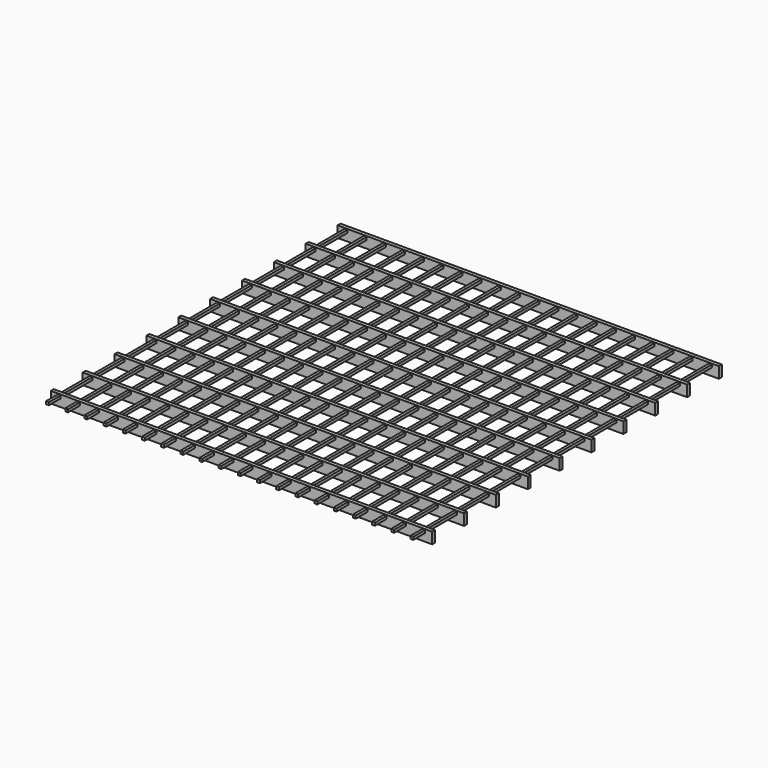
from build123d import *

# Parameters (mm, degrees)
F1_DEPTH      = 151
F2_W          = 38
F2_H          = 38
F3_DEPTH      = 4920
F3_DEPTH_BACK = 200


with BuildPart() as f1:
    # F0 (on Top) → F1 (new body)
    with BuildSketch(Plane.XY):
        Polygon((-2535, -2460), (2585, -2460), (2585, -2410), (-2535, -2410), (-2560, -2410), (-2585, -2410), (-2585, -2460), (-2560, -2460), align=None)
    extrude(amount=F1_DEPTH)


with BuildPart() as f1b:
    # F0 (on Top) → F1, piece 2 (new body)
    with BuildSketch(Plane.XY):
        Polygon((-2535, -1920), (2585, -1920), (2585, -1870), (-2535, -1870), (-2560, -1870), (-2585, -1870), (-2585, -1920), (-2560, -1920), align=None)
    extrude(amount=F1_DEPTH)


with BuildPart() as f1c:
    # F0 (on Top) → F1, piece 3 (new body)
    with BuildSketch(Plane.XY):
        Polygon((-2535, -1380), (2585, -1380), (2585, -1330), (-2535, -1330), (-2560, -1330), (-2585, -1330), (-2585, -1380), (-2560, -1380), align=None)
    extrude(amount=F1_DEPTH)


with BuildPart() as f1d:
    # F0 (on Top) → F1, piece 4 (new body)
    with BuildSketch(Plane.XY):
        Polygon((-2535, -840), (2585, -840), (2585, -790), (-2535, -790), (-2560, -790), (-2585, -790), (-2585, -840), (-2560, -840), align=None)
    extrude(amount=F1_DEPTH)


with BuildPart() as f1e:
    # F0 (on Top) → F1, piece 5 (new body)
    with BuildSketch(Plane.XY):
        Polygon((-2535, -300), (2585, -300), (2585, -250), (-2535, -250), (-2560, -250), (-2585, -250), (-2585, -300), (-2560, -300), align=None)
    extrude(amount=F1_DEPTH)


with BuildPart() as f1f:
    # F0 (on Top) → F1, piece 6 (new body)
    with BuildSketch(Plane.XY):
        Polygon((-2535, 240), (2585, 240), (2585, 290), (-2535, 290), (-2560, 290), (-2585, 290), (-2585, 240), (-2560, 240), align=None)
    extrude(amount=F1_DEPTH)


with BuildPart() as f1g:
    # F0 (on Top) → F1, piece 7 (new body)
    with BuildSketch(Plane.XY):
        Polygon((-2535, 780), (2585, 780), (2585, 830), (-2535, 830), (-2560, 830), (-2585, 830), (-2585, 780), (-2560, 780), align=None)
    extrude(amount=F1_DEPTH)


with BuildPart() as f1h:
    # F0 (on Top) → F1, piece 8 (new body)
    with BuildSketch(Plane.XY):
        Polygon((-2535, 1320), (2585, 1320), (2585, 1370), (-2535, 1370), (-2560, 1370), (-2585, 1370), (-2585, 1320), (-2560, 1320), align=None)
    extrude(amount=F1_DEPTH)


with BuildPart() as f1i:
    # F0 (on Top) → F1, piece 9 (new body)
    with BuildSketch(Plane.XY):
        Polygon((-2535, 1860), (2585, 1860), (2585, 1910), (-2535, 1910), (-2560, 1910), (-2585, 1910), (-2585, 1860), (-2560, 1860), align=None)
    extrude(amount=F1_DEPTH)


with BuildPart() as f1j:
    # F0 (on Top) → F1, piece 10 (new body)
    with BuildSketch(Plane.XY):
        Polygon((-2535, 2400), (2585, 2400), (2585, 2450), (-2535, 2450), (-2560, 2450), (-2585, 2450), (-2585, 2400), (-2560, 2400), align=None)
    extrude(amount=F1_DEPTH)


with BuildPart() as f3:
    # F2 (on face) → F3 (new body, two sides)
    with BuildSketch(Plane.XZ.offset(2460)) as f3_sk:
        with Locations((2470, 122)):
            Rectangle(F2_W, F2_H)
    extrude(amount=-F3_DEPTH)
    extrude(f3_sk.sketch, amount=F3_DEPTH_BACK)


with BuildPart() as f3b:
    # F2 (on face) → F3, piece 2 (new body, two sides)
    with BuildSketch(Plane.XZ.offset(2460)) as f3_2_sk:
        with Locations((2210, 122)):
            Rectangle(F2_W, F2_H)
    extrude(amount=-F3_DEPTH)
    extrude(f3_2_sk.sketch, amount=F3_DEPTH_BACK)


with BuildPart() as f3c:
    # F2 (on face) → F3, piece 3 (new body, two sides)
    with BuildSketch(Plane.XZ.offset(2460)) as f3_3_sk:
        with Locations((1950, 122)):
            Rectangle(F2_W, F2_H)
    extrude(amount=-F3_DEPTH)
    extrude(f3_3_sk.sketch, amount=F3_DEPTH_BACK)


with BuildPart() as f3d:
    # F2 (on face) → F3, piece 4 (new body, two sides)
    with BuildSketch(Plane.XZ.offset(2460)) as f3_4_sk:
        with Locations((1690, 122)):
            Rectangle(F2_W, F2_H)
    extrude(amount=-F3_DEPTH)
    extrude(f3_4_sk.sketch, amount=F3_DEPTH_BACK)


with BuildPart() as f3e:
    # F2 (on face) → F3, piece 5 (new body, two sides)
    with BuildSketch(Plane.XZ.offset(2460)) as f3_5_sk:
        with Locations((1430, 122)):
            Rectangle(F2_W, F2_H)
    extrude(amount=-F3_DEPTH)
    extrude(f3_5_sk.sketch, amount=F3_DEPTH_BACK)


with BuildPart() as f3f:
    # F2 (on face) → F3, piece 6 (new body, two sides)
    with BuildSketch(Plane.XZ.offset(2460)) as f3_6_sk:
        with Locations((1170, 122)):
            Rectangle(F2_W, F2_H)
    extrude(amount=-F3_DEPTH)
    extrude(f3_6_sk.sketch, amount=F3_DEPTH_BACK)


with BuildPart() as f3g:
    # F2 (on face) → F3, piece 7 (new body, two sides)
    with BuildSketch(Plane.XZ.offset(2460)) as f3_7_sk:
        with Locations((910, 122)):
            Rectangle(F2_W, F2_H)
    extrude(amount=-F3_DEPTH)
    extrude(f3_7_sk.sketch, amount=F3_DEPTH_BACK)


with BuildPart() as f3h:
    # F2 (on face) → F3, piece 8 (new body, two sides)
    with BuildSketch(Plane.XZ.offset(2460)) as f3_8_sk:
        with Locations((650, 122)):
            Rectangle(F2_W, F2_H)
    extrude(amount=-F3_DEPTH)
    extrude(f3_8_sk.sketch, amount=F3_DEPTH_BACK)


with BuildPart() as f3i:
    # F2 (on face) → F3, piece 9 (new body, two sides)
    with BuildSketch(Plane.XZ.offset(2460)) as f3_9_sk:
        with Locations((390, 122)):
            Rectangle(F2_W, F2_H)
    extrude(amount=-F3_DEPTH)
    extrude(f3_9_sk.sketch, amount=F3_DEPTH_BACK)


with BuildPart() as f3j:
    # F2 (on face) → F3, piece 10 (new body, two sides)
    with BuildSketch(Plane.XZ.offset(2460)) as f3_10_sk:
        with Locations((130, 122)):
            Rectangle(F2_W, F2_H)
    extrude(amount=-F3_DEPTH)
    extrude(f3_10_sk.sketch, amount=F3_DEPTH_BACK)


with BuildPart() as f3k:
    # F2 (on face) → F3, piece 11 (new body, two sides)
    with BuildSketch(Plane.XZ.offset(2460)) as f3_11_sk:
        with Locations((-130, 122)):
            Rectangle(F2_W, F2_H)
    extrude(amount=-F3_DEPTH)
    extrude(f3_11_sk.sketch, amount=F3_DEPTH_BACK)


with BuildPart() as f3l:
    # F2 (on face) → F3, piece 12 (new body, two sides)
    with BuildSketch(Plane.XZ.offset(2460)) as f3_12_sk:
        with Locations((-390, 122)):
            Rectangle(F2_W, F2_H)
    extrude(amount=-F3_DEPTH)
    extrude(f3_12_sk.sketch, amount=F3_DEPTH_BACK)


with BuildPart() as f3m:
    # F2 (on face) → F3, piece 13 (new body, two sides)
    with BuildSketch(Plane.XZ.offset(2460)) as f3_13_sk:
        with Locations((-650, 122)):
            Rectangle(F2_W, F2_H)
    extrude(amount=-F3_DEPTH)
    extrude(f3_13_sk.sketch, amount=F3_DEPTH_BACK)


with BuildPart() as f3n:
    # F2 (on face) → F3, piece 14 (new body, two sides)
    with BuildSketch(Plane.XZ.offset(2460)) as f3_14_sk:
        with Locations((-910, 122)):
            Rectangle(F2_W, F2_H)
    extrude(amount=-F3_DEPTH)
    extrude(f3_14_sk.sketch, amount=F3_DEPTH_BACK)


with BuildPart() as f3o:
    # F2 (on face) → F3, piece 15 (new body, two sides)
    with BuildSketch(Plane.XZ.offset(2460)) as f3_15_sk:
        with Locations((-1170, 122)):
            Rectangle(F2_W, F2_H)
    extrude(amount=-F3_DEPTH)
    extrude(f3_15_sk.sketch, amount=F3_DEPTH_BACK)


with BuildPart() as f3p:
    # F2 (on face) → F3, piece 16 (new body, two sides)
    with BuildSketch(Plane.XZ.offset(2460)) as f3_16_sk:
        with Locations((-1430, 122)):
            Rectangle(F2_W, F2_H)
    extrude(amount=-F3_DEPTH)
    extrude(f3_16_sk.sketch, amount=F3_DEPTH_BACK)


with BuildPart() as f3q:
    # F2 (on face) → F3, piece 17 (new body, two sides)
    with BuildSketch(Plane.XZ.offset(2460)) as f3_17_sk:
        with Locations((-1690, 122)):
            Rectangle(F2_W, F2_H)
    extrude(amount=-F3_DEPTH)
    extrude(f3_17_sk.sketch, amount=F3_DEPTH_BACK)


with BuildPart() as f3r:
    # F2 (on face) → F3, piece 18 (new body, two sides)
    with BuildSketch(Plane.XZ.offset(2460)) as f3_18_sk:
        with Locations((-1950, 122)):
            Rectangle(F2_W, F2_H)
    extrude(amount=-F3_DEPTH)
    extrude(f3_18_sk.sketch, amount=F3_DEPTH_BACK)


with BuildPart() as f3s:
    # F2 (on face) → F3, piece 19 (new body, two sides)
    with BuildSketch(Plane.XZ.offset(2460)) as f3_19_sk:
        with Locations((-2210, 122)):
            Rectangle(F2_W, F2_H)
    extrude(amount=-F3_DEPTH)
    extrude(f3_19_sk.sketch, amount=F3_DEPTH_BACK)


with BuildPart() as f3t:
    # F2 (on face) → F3, piece 20 (new body, two sides)
    with BuildSketch(Plane.XZ.offset(2460)) as f3_20_sk:
        with Locations((-2470, 122)):
            Rectangle(F2_W, F2_H)
    extrude(amount=-F3_DEPTH)
    extrude(f3_20_sk.sketch, amount=F3_DEPTH_BACK)


solid = Compound([f1.part, f1b.part, f1c.part, f1d.part, f1e.part, f1f.part, f1g.part, f1h.part, f1i.part, f1j.part, f3.part, f3b.part, f3c.part, f3d.part, f3e.part, f3f.part, f3g.part, f3h.part, f3i.part, f3j.part, f3k.part, f3l.part, f3m.part, f3n.part, f3o.part, f3p.part, f3q.part, f3r.part, f3s.part, f3t.part])
